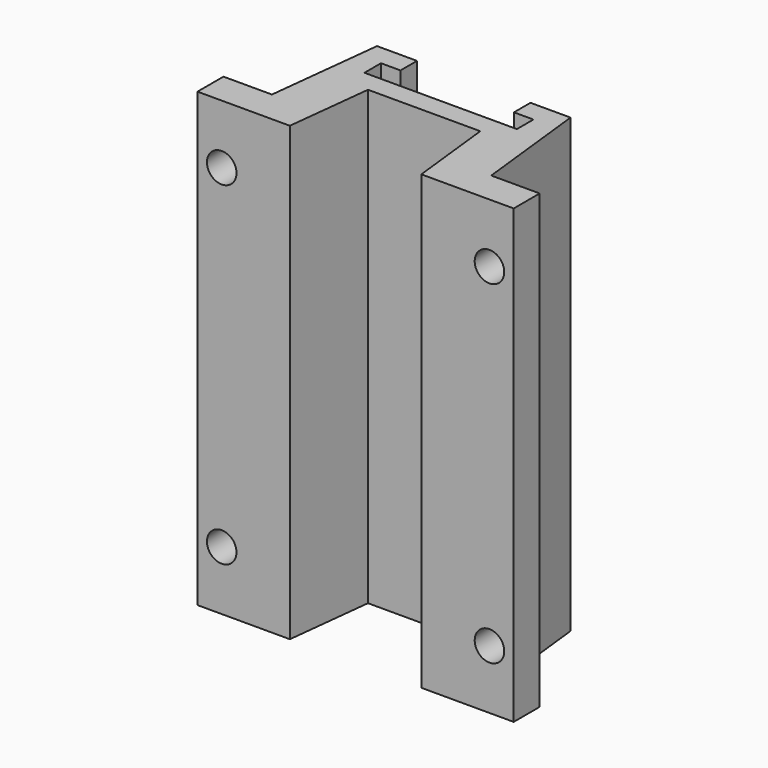
from build123d import *

# Parameters (mm, degrees)
F1_DEPTH = 76.5
F3_DEPTH = 66
F4_R     = 2.5
F5_DEPTH = 5.501


with BuildPart() as f1:
    # F0 (on Top) → F1 (new body)
    with BuildSketch(Plane.XY):
        Polygon((18.557011, -19.5), (16.375, 0), (0, 0), (-16.375, 0), (-18.557011, -19.5), (-26.757011, -19.5), (-26.757011, -25), (-11.122521, -25), (-9.5, -10.5), (0, -10.5), (9.5, -10.5), (11.122521, -25), (26.757011, -25), (26.757011, -19.5), align=None)
    extrude(amount=F1_DEPTH)

    # F2 (on face) → F3 (cut)
    with BuildSketch(Plane.XY.offset(76.5)):
        Polygon((9.6, 0), (-9.6, 0), (-9.6, -3.5), (-12.9, -3.5), (-12.9, -7), (12.9, -7), (12.9, -3.5), (9.6, -3.5), align=None)
    extrude(amount=-F3_DEPTH, mode=Mode.SUBTRACT)

    # F4 (on face) → F5 (cut, through all)
    with BuildSketch(Plane(origin=(0, -19.5, 0), x_dir=(-1, 0, 0), z_dir=(0, 1, 0))):
        with Locations((22.657011, 10)):
            Circle(F4_R)
        with Locations((22.657011, 66.5)):
            Circle(F4_R)
        with Locations((-22.657011, 10)):
            Circle(F4_R)
        with Locations((-22.657011, 66.5)):
            Circle(F4_R)
    extrude(amount=-F5_DEPTH, mode=Mode.SUBTRACT)


solid = f1.part
